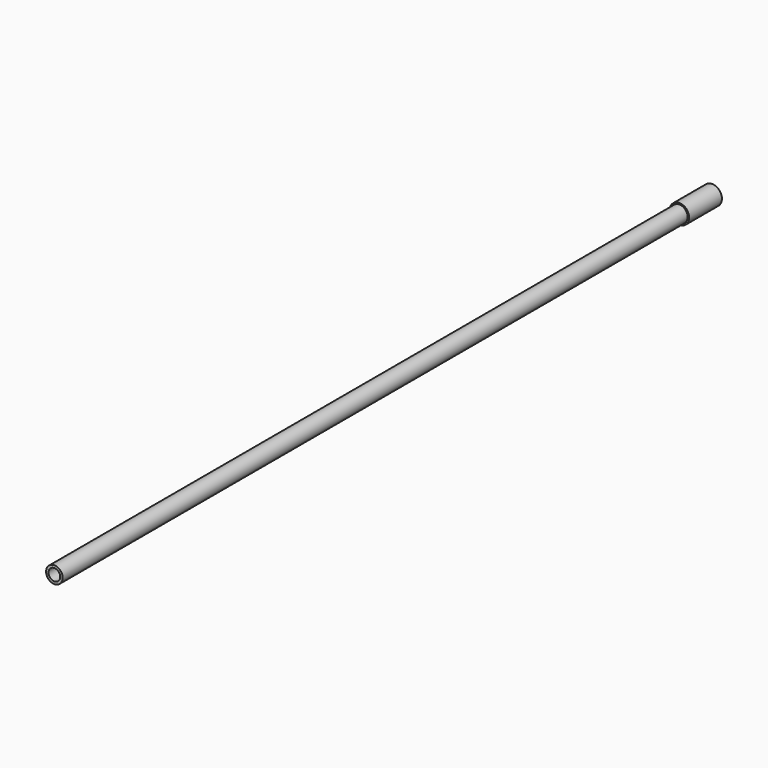
from build123d import *

# Parameters (mm, degrees)
F0_R          = 4.25
F0_R_2        = 3
F1_DEPTH      = 21
F1_DEPTH_BACK = 400
F0_R_3        = 5
F2_DEPTH      = 21


with BuildPart() as f1:
    # F0 (on Front) → F1 (new body, two sides)
    with BuildSketch(Plane.XZ) as f1_sk:
        Circle(F0_R)
        Circle(F0_R_2, mode=Mode.SUBTRACT)
    extrude(amount=-F1_DEPTH)
    extrude(f1_sk.sketch, amount=F1_DEPTH_BACK)

    # F0 (on Front) → F2 (join)
    with BuildSketch(Plane.XZ):
        Circle(F0_R_3)
        Circle(F0_R, mode=Mode.SUBTRACT)
    extrude(amount=-F2_DEPTH)


solid = f1.part
